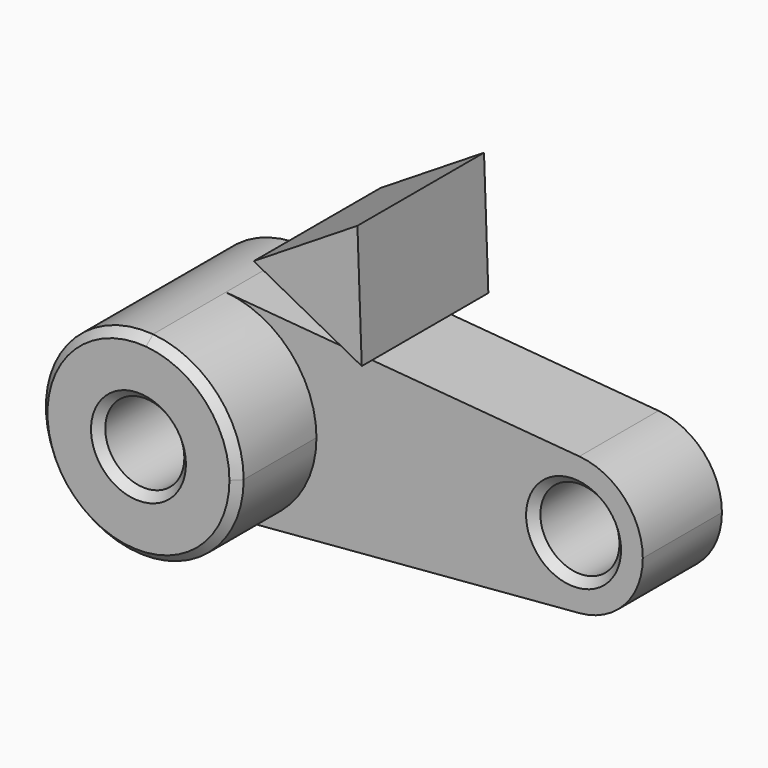
from build123d import *

# Parameters (mm, degrees)
F0_R     = 10
F1_DEPTH = 25
F2_DEPTH = 50
F3_SIZE  = 2
F5_DEPTH = 40


with BuildPart() as f1:
    # F0 (on Front) → F1 (new body)
    with BuildSketch(Plane.XZ):
        with BuildLine():
            ThreePointArc((2.083333, -24.913043), (18.399502, -16.92508), (25, 0))
            ThreePointArc((25, 0), (18.399502, 16.92508), (2.083333, 24.913043))
            ThreePointArc((2.083333, 24.913043), (-25, 0), (2.083333, -24.913043))
        make_face()
        Circle(F0_R, mode=Mode.SUBTRACT)
        with BuildLine():
            ThreePointArc((2.083333, 24.913043), (18.399502, 16.92508), (25, 0))
            ThreePointArc((25, 0), (18.399502, -16.92508), (2.083333, -24.913043))
            Line((2.083333, -24.913043), (91.458333, -17.43913))
            ThreePointArc((91.458333, -17.43913), (72.5, 0), (91.458333, 17.43913))
            Line((91.458333, 17.43913), (2.083333, 24.913043))
        make_face()
        with BuildLine():
            ThreePointArc((107.5, 0), (102.879651, 11.847556), (91.458333, 17.43913))
            ThreePointArc((91.458333, 17.43913), (72.5, 0), (91.458333, -17.43913))
            ThreePointArc((91.458333, -17.43913), (102.879651, -11.847556), (107.5, 0))
        make_face()
        with Locations((90, 0)):
            Circle(F0_R, mode=Mode.SUBTRACT)
    extrude(amount=F1_DEPTH)

    # F0 (on Front) → F2 (join)
    with BuildSketch(Plane.XZ):
        with BuildLine():
            ThreePointArc((2.083333, -24.913043), (18.399502, -16.92508), (25, 0))
            ThreePointArc((25, 0), (18.399502, 16.92508), (2.083333, 24.913043))
            ThreePointArc((2.083333, 24.913043), (-25, 0), (2.083333, -24.913043))
        make_face()
        Circle(F0_R, mode=Mode.SUBTRACT)
    extrude(amount=F2_DEPTH)

    # F3
    f3_edges = [f1.edges().sort_by_distance(p)[0] for p in [
        (-2.083333, -50, 24.913043),
        (-10, -50, 0),
        (80, -25, 0),
    ]]
    chamfer(f3_edges, length=F3_SIZE)


with BuildPart() as f5:
    # F4 (on Front) → F5 (new body)
    with BuildSketch(Plane.XZ):
        Polygon((21.156458, 44.141732), (48.445877, 29.642772), (47.357635, 60.525581), align=None)
    extrude(amount=F5_DEPTH)


solid = Compound([f1.part, f5.part])
